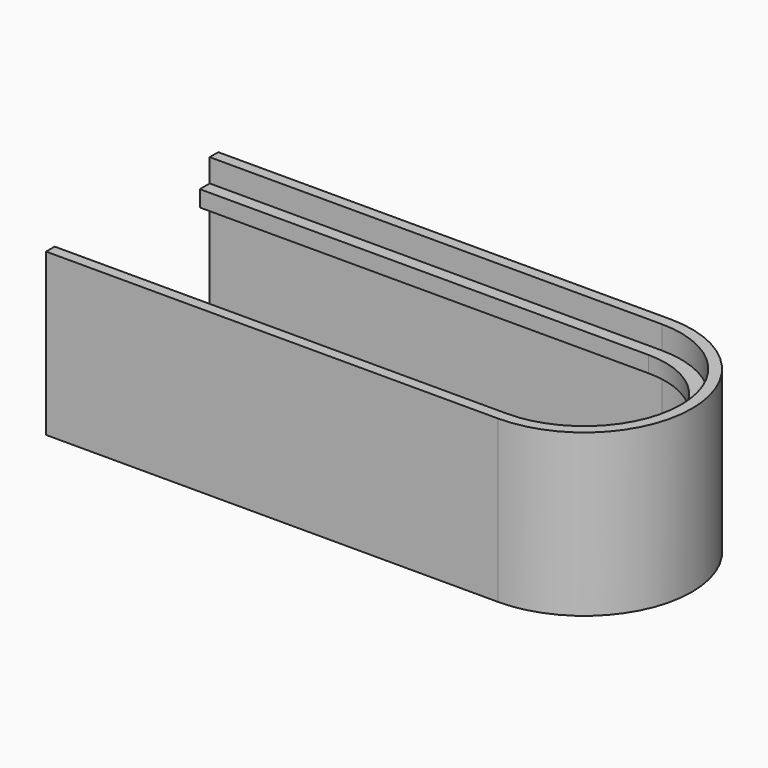
from build123d import *

# Parameters (mm, degrees)
CYLINDER017_R     = 1
CYLINDER017_DEPTH = 10
CYLINDER018_R     = 1
CYLINDER018_DEPTH = 10
CYLINDER014_R     = 1.1
CYLINDER014_DEPTH = 12
CYLINDER_R        = 6.3
CYLINDER_DEPTH    = 52
PAD007_DEPTH      = 30
PAD006_DEPTH      = 30
PAD013_DEPTH      = 3
PAD012_DEPTH      = 3


with BuildPart() as cilindro005:
    # Cylinder017 → Cylinder017 (new body)
    with BuildSketch(Plane(origin=(-28, 0, -4), x_dir=(1, 0, 0), z_dir=(0, 0, 1))):
        Circle(CYLINDER017_R)
    extrude(amount=CYLINDER017_DEPTH)


with BuildPart() as fusion001010:
    # Cylinder018 → Cylinder018 (new body)
    with BuildSketch(Plane(origin=(-56, 0, -4), x_dir=(1, 0, 0), z_dir=(0, 0, 1))):
        Circle(CYLINDER018_R)
    extrude(amount=CYLINDER018_DEPTH)

    # Fusion001010: union Cilindro005
    add(cilindro005.part)


with BuildPart() as cilindro:
    # Cylinder014 → Cylinder014 (new body)
    with BuildSketch(Plane.XY):
        Circle(CYLINDER014_R)
    extrude(amount=CYLINDER014_DEPTH)


with BuildPart() as eje:
    # Cylinder → Cylinder (new body)
    with BuildSketch(Plane(origin=(-84, 0, -28), x_dir=(1, 0, 0), z_dir=(0, 0, 1))):
        Circle(CYLINDER_R)
    extrude(amount=CYLINDER_DEPTH)


with BuildPart() as base002:
    # Sketch009 → Pad007 (new body)
    with BuildSketch(Plane.XY):
        with BuildLine():
            Line((0, 18), (-84, 18))
            ThreePointArc((-84, 18), (-102, 0), (-84, -18))
            Line((0, -18), (-84, -18))
            Line((0, 18), (0, -18))
        make_face()
    extrude(amount=PAD007_DEPTH)


with BuildPart() as base002_1:
    # Body011 placement: moved
    add(base002.part.moved(Location((0, 0, 4))))


with BuildPart() as cut013007:
    # Sketch008 → Pad006 (new body)
    with BuildSketch(Plane.XY):
        with BuildLine():
            Line((0, 20), (-84, 20))
            ThreePointArc((-84, 20), (-104, 0), (-84, -20))
            Line((0, -20), (-84, -20))
            Line((0, 20), (0, -20))
        make_face()
    extrude(amount=PAD006_DEPTH)

    # Cut017: cut Base002
    add(base002_1.part, mode=Mode.SUBTRACT)

    # Cut018: cut Eje
    add(eje.part, mode=Mode.SUBTRACT)

    # Fusion001006: union Cilindro
    add(cilindro.part)

    # Cut013007: cut Fusion001010
    add(fusion001010.part, mode=Mode.SUBTRACT)


with BuildPart() as tapa004:
    # Sketch019 → Pad013 (new body)
    with BuildSketch(Plane.XY):
        with BuildLine():
            Line((0, 15.7), (-83.4, 15.7))
            ThreePointArc((-83.4, 15.7), (-99.1, 0), (-83.4, -15.7))
            Line((0, -15.7), (-83.4, -15.7))
            Line((0, 15.7), (0, -15.7))
        make_face()
    extrude(amount=PAD013_DEPTH)


with BuildPart() as tapa004_1:
    # Body016 placement: moved
    add(tapa004.part.moved(Location((0, 0, 26))))


with BuildPart() as fusion001014:
    # Sketch018 → Pad012 (new body)
    with BuildSketch(Plane.XY):
        with BuildLine():
            Line((0, 19), (-83.4, 19))
            ThreePointArc((-83.4, 19), (-102.4, 0), (-83.4, -19))
            Line((0, -19), (-83.4, -19))
            Line((0, 19), (0, -19))
        make_face()
    extrude(amount=PAD012_DEPTH)


with BuildPart() as fusion001014_1:
    # Body015 placement: moved
    add(fusion001014.part.moved(Location((0, 0, 26))))

    # Cut013003: cut Tapa004
    add(tapa004_1.part, mode=Mode.SUBTRACT)


with BuildPart() as fusion001014_2:
    # Cut013003 placement: moved
    add(fusion001014_1.part.moved(Location((0, 0, -3.3))))

    # Fusion001014: union Cut013007
    add(cut013007.part)


with BuildPart() as part_mirroring009:
    # Part__Mirroring009: instance of Fusion001014
    add(fusion001014_2.part.mirror(Plane(origin=(0, 0, 0), x_dir=(0, -1, 0), z_dir=(1, 0, 0))))


solid = part_mirroring009.part
